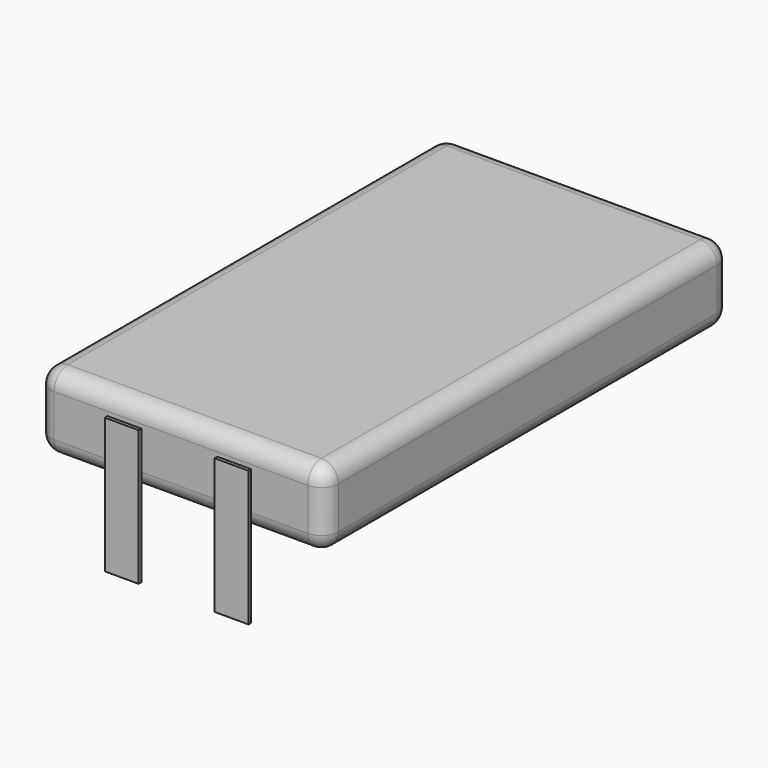
from build123d import *

# Parameters (mm, degrees)
BOX002_W            = 8
BOX002_H            = 2
BOX002_DEPTH        = 0.2
BOX001_W            = 8
BOX001_H            = 2
BOX001_DEPTH        = 0.2
BOX_W               = 30
BOX_H               = 17
BOX_DEPTH           = 4.5
BOX_PLACEMENT_ANGLE = 90
FILLET_R            = 1


with BuildPart() as box002:
    # Box002 → Box002 (new body)
    with BuildSketch(Plane(origin=(49.15, -57, 0), x_dir=(0, 0, 1), z_dir=(0, -1, 0))):
        with Locations((4, 1)):
            Rectangle(BOX002_W, BOX002_H)
    extrude(amount=BOX002_DEPTH)


with BuildPart() as box001:
    # Box001 → Box001 (new body)
    with BuildSketch(Plane(origin=(42.65, -57, 0), x_dir=(0, 0, 1), z_dir=(0, -1, 0))):
        with Locations((4, 1)):
            Rectangle(BOX001_W, BOX001_H)
    extrude(amount=BOX001_DEPTH)


with BuildPart() as battery:
    # Box → Box (new body)
    with BuildSketch(Plane.XY):
        with Locations((15, 8.5)):
            Rectangle(BOX_W, BOX_H)
    extrude(amount=BOX_DEPTH)


with BuildPart() as battery_1:
    # Box placement: moved
    add(battery.part.moved(Location((53.5, -57, 4.75))).rotate(Axis((53.5, -57, 4.75), (0, 0, 1)), BOX_PLACEMENT_ANGLE))

    # Fillet
    fillet_edges = [battery_1.edges().sort_by_distance(p)[0] for p in [
        (53.5, -57, 7),
        (45, -57, 9.25),
        (36.5, -57, 7),
        (45, -57, 4.75),
        (53.5, -27, 7),
        (45, -27, 9.25),
        (36.5, -27, 7),
        (45, -27, 4.75),
        (53.5, -42, 4.75),
        (53.5, -42, 9.25),
        (36.5, -42, 4.75),
        (36.5, -42, 9.25),
    ]]
    fillet(fillet_edges, radius=FILLET_R)

    # Fusion: union Box002, Box001
    add(box002.part)
    add(box001.part)


solid = battery_1.part
